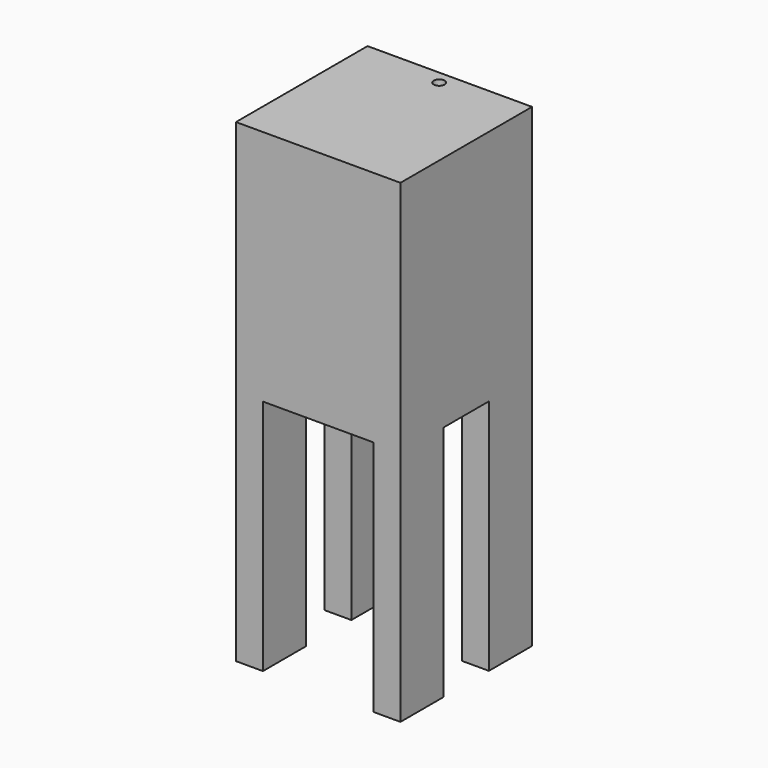
from build123d import *

# Parameters (mm, degrees)
F0_W     = 305
F0_H     = 440
F1_DEPTH = 305
F3_D     = 20.25
F4_W     = 50
F4_H     = 100
F5_DEPTH = 440
F6_DEPTH = 440


with BuildPart() as f1:
    # F0 (on Front) → F1 (new body)
    with BuildSketch(Plane.XZ):
        with Locations((152.5, 2.728686)):
            Rectangle(F0_W, F0_H)
    extrude(amount=F1_DEPTH)

    # F3 (through all)
    with Locations(Plane.XY.offset(222.728686)):
        with Locations((152.5, -24.5)):
            Hole(F3_D / 2)

    # F4 (on face) → F5 (join)
    with BuildSketch(Plane(origin=(0, 0, -217.271314), x_dir=(1, 0, 0), z_dir=(0, 0, -1))):
        with Locations((25, 255)):
            Rectangle(F4_W, F4_H)
    extrude(amount=F5_DEPTH)

    # F4 (on face) → F6 (join)
    with BuildSketch(Plane(origin=(0, 0, -217.271314), x_dir=(1, 0, 0), z_dir=(0, 0, -1))):
        with Locations((280, 255)):
            Rectangle(F4_W, F4_H)
        with Locations((280, 50)):
            Rectangle(F4_W, F4_H)
        with Locations((25, 50)):
            Rectangle(F4_W, F4_H)
    extrude(amount=F6_DEPTH)


solid = f1.part
